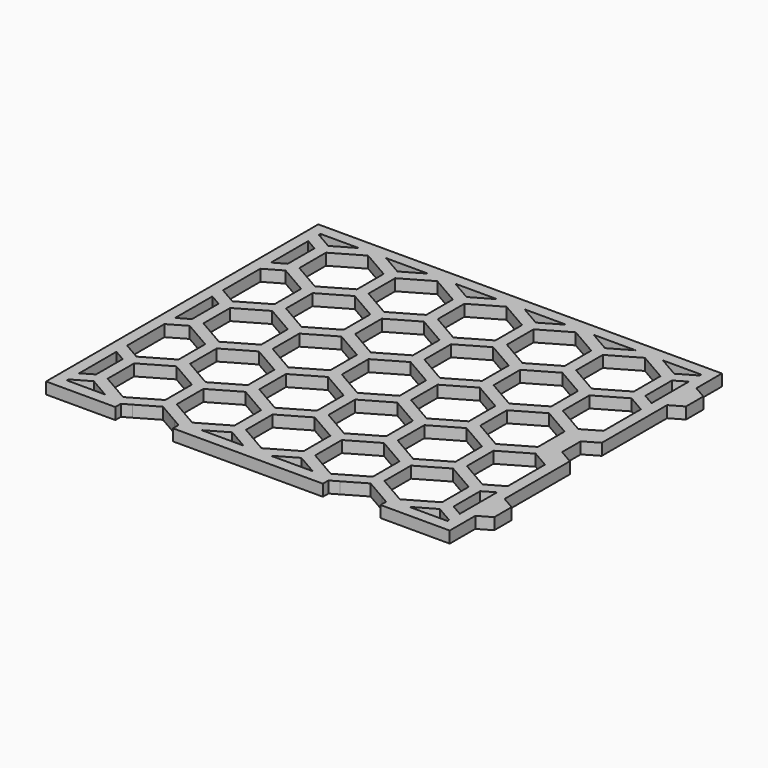
from build123d import *

# Parameters (mm, degrees)
F0_W     = 140
F0_H     = 118
F0_W_2   = 132
F0_H_2   = 110
F1_DEPTH = 4
F2_W     = 140
F2_H     = 118
F3_DEPTH = 4
F5_DEPTH = 4
F7_DEPTH = 4
F9_DEPTH = 4.001


with BuildPart() as f1:
    # F0 (on Top) → F1 (new body)
    with BuildSketch(Plane.XY):
        Rectangle(F0_W, F0_H)
        Rectangle(F0_W_2, F0_H_2, mode=Mode.SUBTRACT)
    extrude(amount=F1_DEPTH)

    # F2 (on Top) → F3 (join, through all)
    with BuildSketch(Plane.XY):
        Rectangle(F2_W, F2_H)
        Polygon((-66, -54.272487), (-60, -50.808385), (-52.73991, -55), (-66, -55), align=None, mode=Mode.SUBTRACT)
        Polygon((-43.26009, -55), (-36, -50.808385), (-28.73991, -55), align=None, mode=Mode.SUBTRACT)
        Polygon((-62, -35.796497), (-62, -47.343503), (-66, -49.652904), (-66, -33.487096), align=None, mode=Mode.SUBTRACT)
        Polygon((-38, -35.796497), (-38, -47.343503), (-48, -53.117005), (-58, -47.343503), (-58, -35.796497), (-48, -30.022995), align=None, mode=Mode.SUBTRACT)
        Polygon((-19.26009, -55), (-12, -50.808385), (-4.73991, -55), align=None, mode=Mode.SUBTRACT)
        Polygon((-14, -35.796497), (-14, -47.343503), (-24, -53.117005), (-34, -47.343503), (-34, -35.796497), (-24, -30.022995), align=None, mode=Mode.SUBTRACT)
        Polygon((-60, -9.238385), (-50, -15.011888), (-50, -26.558893), (-60, -32.332396), (-66, -28.868294), (-66, -12.702487), align=None, mode=Mode.SUBTRACT)
        Polygon((-36, -9.238385), (-26, -15.011888), (-26, -26.558893), (-36, -32.332396), (-46, -26.558893), (-46, -15.011888), align=None, mode=Mode.SUBTRACT)
        Polygon((-12, -9.238385), (-2, -15.011888), (-2, -26.558893), (-12, -32.332396), (-22, -26.558893), (-22, -15.011888), align=None, mode=Mode.SUBTRACT)
        Polygon((4.73991, -55), (12, -50.808385), (19.26009, -55), align=None, mode=Mode.SUBTRACT)
        Polygon((10, -35.796497), (10, -47.343503), (0, -53.117005), (-10, -47.343503), (-10, -35.796497), (0, -30.022995), align=None, mode=Mode.SUBTRACT)
        Polygon((34, -35.796497), (34, -47.343503), (24, -53.117005), (14, -47.343503), (14, -35.796497), (24, -30.022995), align=None, mode=Mode.SUBTRACT)
        Polygon((28.73991, -55), (36, -50.808385), (43.26009, -55), align=None, mode=Mode.SUBTRACT)
        Polygon((52.73991, -55), (60, -50.808385), (66, -54.272487), (66, -55), align=None, mode=Mode.SUBTRACT)
        Polygon((58, -35.796497), (58, -47.343503), (48, -53.117005), (38, -47.343503), (38, -35.796497), (48, -30.022995), align=None, mode=Mode.SUBTRACT)
        Polygon((66, -33.487096), (66, -49.652904), (62, -47.343503), (62, -35.796497), align=None, mode=Mode.SUBTRACT)
        Polygon((12, -9.238385), (22, -15.011888), (22, -26.558893), (12, -32.332396), (2, -26.558893), (2, -15.011888), align=None, mode=Mode.SUBTRACT)
        Polygon((36, -9.238385), (46, -15.011888), (46, -26.558893), (36, -32.332396), (26, -26.558893), (26, -15.011888), align=None, mode=Mode.SUBTRACT)
        Polygon((50, -15.011888), (60, -9.238385), (66, -12.702487), (66, -28.868294), (60, -32.332396), (50, -26.558893), align=None, mode=Mode.SUBTRACT)
        Polygon((-62, 5.773503), (-62, -5.773503), (-66, -8.082904), (-66, 8.082904), align=None, mode=Mode.SUBTRACT)
        Polygon((-38, 5.773503), (-38, -5.773503), (-48, -11.547005), (-58, -5.773503), (-58, 5.773503), (-48, 11.547005), align=None, mode=Mode.SUBTRACT)
        Polygon((-60, 32.331615), (-50, 26.558112), (-50, 15.011107), (-60, 9.237604), (-66, 12.701706), (-66, 28.867513), align=None, mode=Mode.SUBTRACT)
        Polygon((-36, 32.331615), (-26, 26.558112), (-26, 15.011107), (-36, 9.237604), (-46, 15.011107), (-46, 26.558112), align=None, mode=Mode.SUBTRACT)
        Polygon((-14, 5.773503), (-14, -5.773503), (-24, -11.547005), (-34, -5.773503), (-34, 5.773503), (-24, 11.547005), align=None, mode=Mode.SUBTRACT)
        Polygon((-12, 32.331615), (-2, 26.558112), (-2, 15.011107), (-12, 9.237604), (-22, 15.011107), (-22, 26.558112), align=None, mode=Mode.SUBTRACT)
        Polygon((-62, 47.343503), (-62, 35.796497), (-66, 33.487096), (-66, 49.652904), align=None, mode=Mode.SUBTRACT)
        Polygon((-38, 47.343503), (-38, 35.796497), (-48, 30.022995), (-58, 35.796497), (-58, 47.343503), (-48, 53.117005), align=None, mode=Mode.SUBTRACT)
        Polygon((-52.738558, 55), (-60, 50.807604), (-66, 54.271706), (-66, 55), align=None, mode=Mode.SUBTRACT)
        Polygon((-28.738558, 55), (-36, 50.807604), (-43.261442, 55), align=None, mode=Mode.SUBTRACT)
        Polygon((-14, 47.343503), (-14, 35.796497), (-24, 30.022995), (-34, 35.796497), (-34, 47.343503), (-24, 53.117005), align=None, mode=Mode.SUBTRACT)
        Polygon((-4.738558, 55), (-12, 50.807604), (-19.261442, 55), align=None, mode=Mode.SUBTRACT)
        Polygon((10, 5.773503), (10, -5.773503), (0, -11.547005), (-10, -5.773503), (-10, 5.773503), (0, 11.547005), align=None, mode=Mode.SUBTRACT)
        Polygon((34, 5.773503), (34, -5.773503), (24, -11.547005), (14, -5.773503), (14, 5.773503), (24, 11.547005), align=None, mode=Mode.SUBTRACT)
        Polygon((12, 32.331615), (22, 26.558112), (22, 15.011107), (12, 9.237604), (2, 15.011107), (2, 26.558112), align=None, mode=Mode.SUBTRACT)
        Polygon((58, 5.773503), (58, -5.773503), (48, -11.547005), (38, -5.773503), (38, 5.773503), (48, 11.547005), align=None, mode=Mode.SUBTRACT)
        Polygon((66, 8.082904), (66, -8.082904), (62, -5.773503), (62, 5.773503), align=None, mode=Mode.SUBTRACT)
        Polygon((36, 32.331615), (46, 26.558112), (46, 15.011107), (36, 9.237604), (26, 15.011107), (26, 26.558112), align=None, mode=Mode.SUBTRACT)
        Polygon((50, 26.558112), (60, 32.331615), (66, 28.867513), (66, 12.701706), (60, 9.237604), (50, 15.011107), align=None, mode=Mode.SUBTRACT)
        Polygon((10, 47.343503), (10, 35.796497), (0, 30.022995), (-10, 35.796497), (-10, 47.343503), (0, 53.117005), align=None, mode=Mode.SUBTRACT)
        Polygon((34, 47.343503), (34, 35.796497), (24, 30.022995), (14, 35.796497), (14, 47.343503), (24, 53.117005), align=None, mode=Mode.SUBTRACT)
        Polygon((19.261442, 55), (12, 50.807604), (4.738558, 55), align=None, mode=Mode.SUBTRACT)
        Polygon((58, 47.343503), (58, 35.796497), (48, 30.022995), (38, 35.796497), (38, 47.343503), (48, 53.117005), align=None, mode=Mode.SUBTRACT)
        Polygon((66, 49.652904), (66, 33.487096), (62, 35.796497), (62, 47.343503), align=None, mode=Mode.SUBTRACT)
        Polygon((43.261442, 55), (36, 50.807604), (28.738558, 55), align=None, mode=Mode.SUBTRACT)
        Polygon((66, 54.271706), (60, 50.807604), (52.738558, 55), (66, 55), align=None, mode=Mode.SUBTRACT)
    extrude(amount=F3_DEPTH)

    # F4 (on Top) → F5 (join, through all)
    with BuildSketch(Plane.XY):
        Polygon((70, 47.920853), (70, 35.219147), (74.5, 37.817223), (74.5, 45.322777), align=None)
        Polygon((70, -35.219147), (70, -47.920853), (74.5, -45.322777), (74.5, -37.817223), align=None)
    extrude(amount=F5_DEPTH)

    # F6 (on Top) → F7 (join, through all)
    with BuildSketch(Plane.XY):
        Polygon((62, -5.773503), (70, -10.392305), (70, 10.392305), (62, 5.773503), align=None)
    extrude(amount=F7_DEPTH)

    # F8 (on Top) → F9 (cut, through all)
    with BuildSketch(Plane.XY):
        Polygon((26, -68.128893), (36, -73.902396), (46, -68.128893), (46, -56.581888), (36, -50.808385), (26, -56.581888), align=None)
        Polygon((-46, -68.128893), (-36, -73.902396), (-26, -68.128893), (-26, -56.581888), (-36, -50.808385), (-46, -56.581888), align=None)
        Polygon((70, 6.928203), (65, 4.041452), (65, -4.041452), (70, -6.928203), align=None)
    extrude(amount=F9_DEPTH, mode=Mode.SUBTRACT)


solid = f1.part
